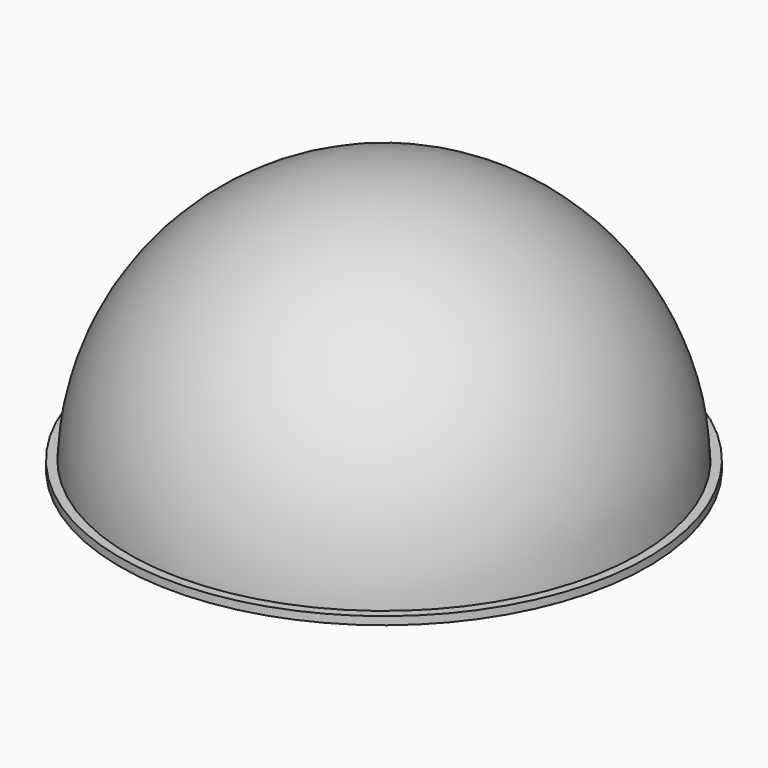
from build123d import *

# Parameters (mm, degrees)
F1_ANGLE = 180
F2_DEPTH = 6.35


with BuildPart() as f1:
    # F0 (on Top) → F1 (revolve)
    with BuildSketch(Plane.XY):
        with BuildLine():
            Line((0, 201.75601), (0, -201.75601))
            ThreePointArc((0, -201.75601), (201.75601, 0), (0, 201.75601))
        make_face()
    revolve(axis=Axis((0, 0, 0), (0, -1, 0)), revolution_arc=F1_ANGLE)


with BuildPart() as f2:
    # F0 (on Top) → F2 (new body)
    with BuildSketch(Plane.XY):
        with BuildLine():
            Line((0, -201.75601), (0, -208.75625))
            ThreePointArc((0, -208.75625), (208.75625, 0), (0, 208.75625))
            Line((0, 208.75625), (0, 201.75601))
            ThreePointArc((0, 201.75601), (201.75601, 0), (0, -201.75601))
        make_face()
        with BuildLine():
            ThreePointArc((0, 208.75625), (-208.75625, 0), (0, -208.75625))
            Line((0, -208.75625), (0, -201.75601))
            ThreePointArc((0, -201.75601), (-201.75601, 0), (0, 201.75601))
            Line((0, 201.75601), (0, 208.75625))
        make_face()
    extrude(amount=F2_DEPTH)


solid = Compound([f1.part, f2.part])
